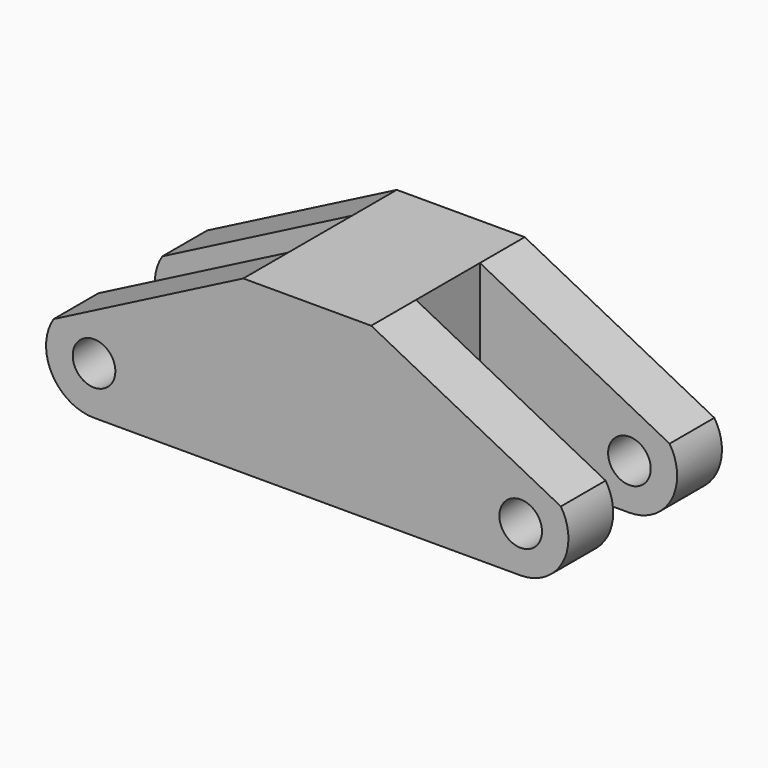
from build123d import *

# Parameters (mm, degrees)
F1_DEPTH = 18
F2_W     = 31.425511
F2_H     = 7.5
F3_DEPTH = 25
F4_R     = 2
F5_DEPTH = 25


with BuildPart() as f1:
    # F0 (on Front) → F1 (new body)
    with BuildSketch(Plane.XZ):
        with BuildLine():
            Line((-20, 0), (0, 0))
            Line((0, 0), (20, 0))
            ThreePointArc((20, 0), (23.947664, 2.33992), (23.789899, 6.926246))
            Line((23.789899, 6.926246), (6, 16.065147))
            Line((6, 16.065147), (-6, 16.065147))
            Line((-6, 16.065147), (-23.789899, 6.926246))
            ThreePointArc((-23.789899, 6.926246), (-23.947664, 2.33992), (-20, 0))
        make_face()
    extrude(amount=F1_DEPTH)

    # F2 (on face) → F3 (cut)
    with BuildSketch(Plane.XY.offset(16.065147)):
        with Locations((-21.712756, -9)):
            Rectangle(F2_W, F2_H)
        with Locations((21.712756, -9)):
            Rectangle(F2_W, F2_H)
    extrude(amount=-F3_DEPTH, mode=Mode.SUBTRACT)

    # F4 (on face) → F5 (cut)
    with BuildSketch(Plane.XZ.offset(18)):
        with Locations((-20, 4.5)):
            Circle(F4_R)
        with Locations((20.022377, 4.279106)):
            Circle(F4_R)
    extrude(amount=-F5_DEPTH, mode=Mode.SUBTRACT)


solid = f1.part
